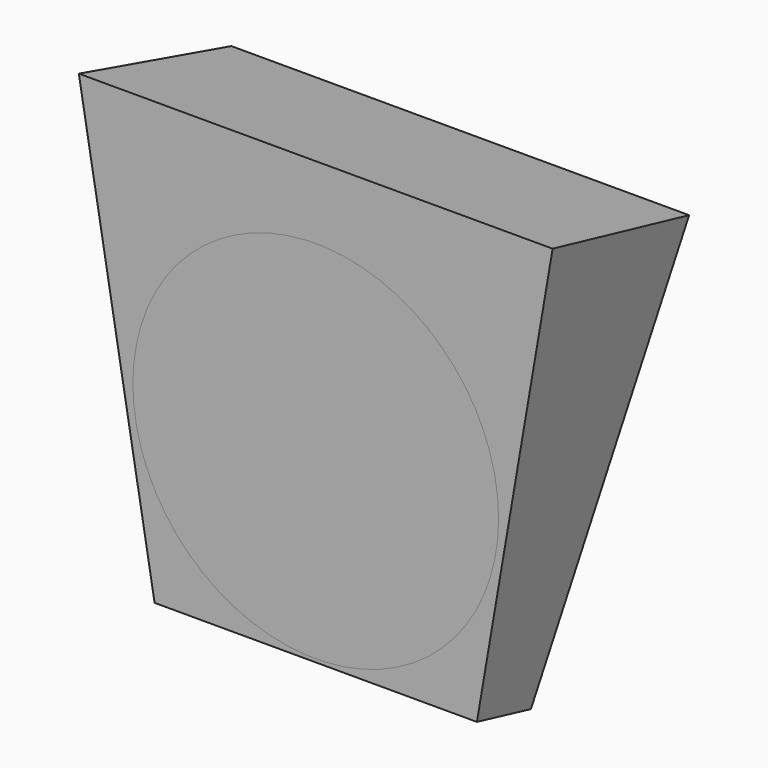
from build123d import *

# Parameters (mm, degrees)
F1_DEPTH = 180.975
F4_DEPTH = 152.4
F5_R     = 139.7
F6_DEPTH = 50.8


with BuildPart() as f1:
    # F0 (on Right) → F1 (new body, symmetric)
    with BuildSketch(Plane.YZ):
        Polygon((96.7011995311, 199.1207802254), (-41.2968869365, 234.6810589562), (-41.2968869365, -100.4281210136), (-41.2968869365, -102.4134735519), (13.3691944888, -116.8315782163), (14.0650554855, -114.1932290856), align=None)
    extrude(amount=F1_DEPTH, both=True)


with BuildPart() as f1_1:
    # F2: moved
    add(f1.part.moved(Location((0, 41.2968948, -26.535126))))

    # F3 (on face) → F4 (cut, symmetric)
    with BuildSketch(Plane.XZ.offset(-7.8635e-06)):
        Polygon((180.975, 208.1459329562), (120.65, -143.3667042163), (410.69722442, -143.3667042163), align=None)
        Polygon((-410.69722442, -143.3667042163), (-120.65, -143.3667042163), (-180.975, 208.1459329562), align=None)
    extrude(amount=F4_DEPTH, both=True, mode=Mode.SUBTRACT)


with BuildPart() as f6:
    # F5 (on Front) → F6 (new body)
    with BuildSketch(Plane.XZ):
        with Locations((0, 13.1286960095)):
            Circle(F5_R)
    extrude(amount=-F6_DEPTH)


solid = Compound([f1_1.part, f6.part])
